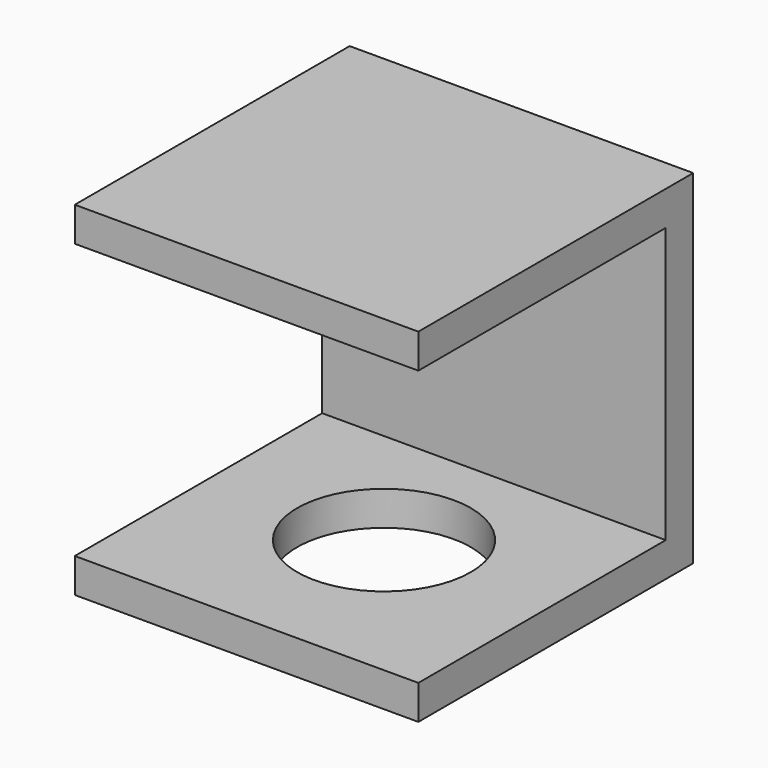
from build123d import *

# Parameters (mm, degrees)
F0_W     = 10
F0_H     = 10
F0_R     = 2.526739
F1_DEPTH = 1
F2_W     = 10
F2_H     = 1
F3_DEPTH = 9
F4_W     = 10
F4_H     = 1
F5_DEPTH = 9


with BuildPart() as f1:
    # F0 (on Top) → F1 (new body)
    with BuildSketch(Plane.XY):
        Rectangle(F0_W, F0_H)
        Circle(F0_R, mode=Mode.SUBTRACT)
    extrude(amount=F1_DEPTH)

    # F2 (on face) → F3 (join)
    with BuildSketch(Plane.XY.offset(1)):
        with Locations((0, 4.5)):
            Rectangle(F2_W, F2_H)
    extrude(amount=F3_DEPTH)

    # F4 (on face) → F5 (join)
    with BuildSketch(Plane.XZ.offset(-4)):
        with Locations((0, 9.5)):
            Rectangle(F4_W, F4_H)
    extrude(amount=F5_DEPTH)


solid = f1.part
